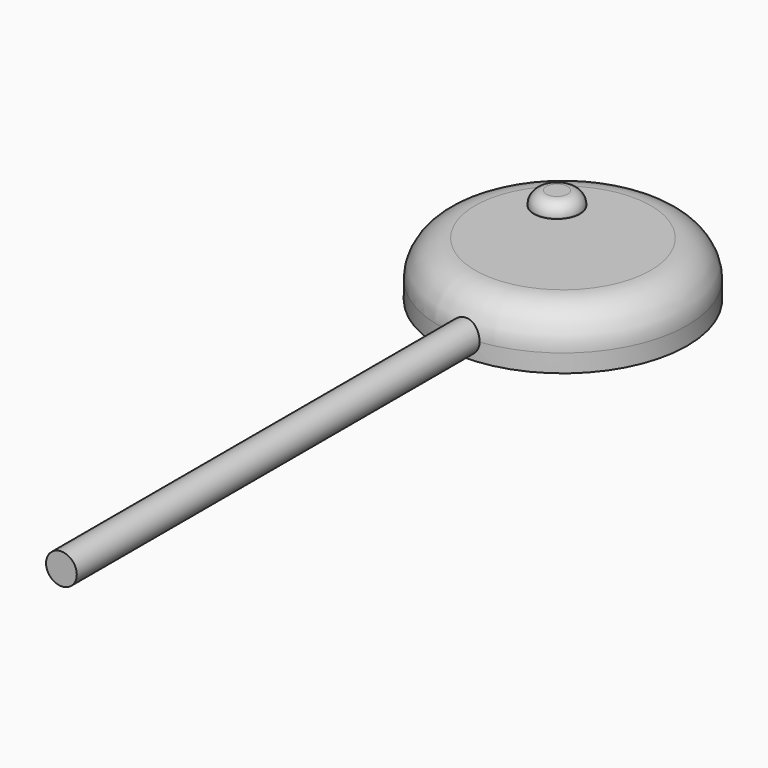
from build123d import *

# Parameters (mm, degrees)
F0_R     = 10.4267
F1_DEPTH = 4.572
F2_R     = 3.066051
F3_R     = 1.288306
F4_DEPTH = 52.578
F5_R     = 1.928538
F6_DEPTH = 1.1176
F7_R     = 1.042457
F8_R     = 5.461
F9_DEPTH = 1.016


with BuildPart() as f1:
    # F0 (on Top) → F1 (new body)
    with BuildSketch(Plane.XY):
        Circle(F0_R)
    extrude(amount=F1_DEPTH)

    # F2
    f2_edges = [f1.edges().sort_by_distance(p)[0] for p in [
        (-10.4267, 0, 4.572),
    ]]
    fillet(f2_edges, radius=F2_R)

    # F3 (on Front) → F4 (join)
    with BuildSketch(Plane.XZ):
        with Locations((0, 1.515293)):
            Circle(F3_R)
    extrude(amount=F4_DEPTH)

    # F5 (on face) → F6 (join)
    with BuildSketch(Plane.XY.offset(4.572)):
        with Locations((-3.190748, 3.358531)):
            Circle(F5_R)
    extrude(amount=F6_DEPTH)

    # F7
    f7_edges = [f1.edges().sort_by_distance(p)[0] for p in [
        (-5.119286, 3.358531, 5.6896),
    ]]
    fillet(f7_edges, radius=F7_R)

    # F8 (on face) → F9 (cut)
    with BuildSketch(Plane(origin=(0, 0, 0), x_dir=(1, 0, 0), z_dir=(0, 0, -1))):
        Circle(F8_R)
    extrude(amount=-F9_DEPTH, mode=Mode.SUBTRACT)


solid = f1.part
